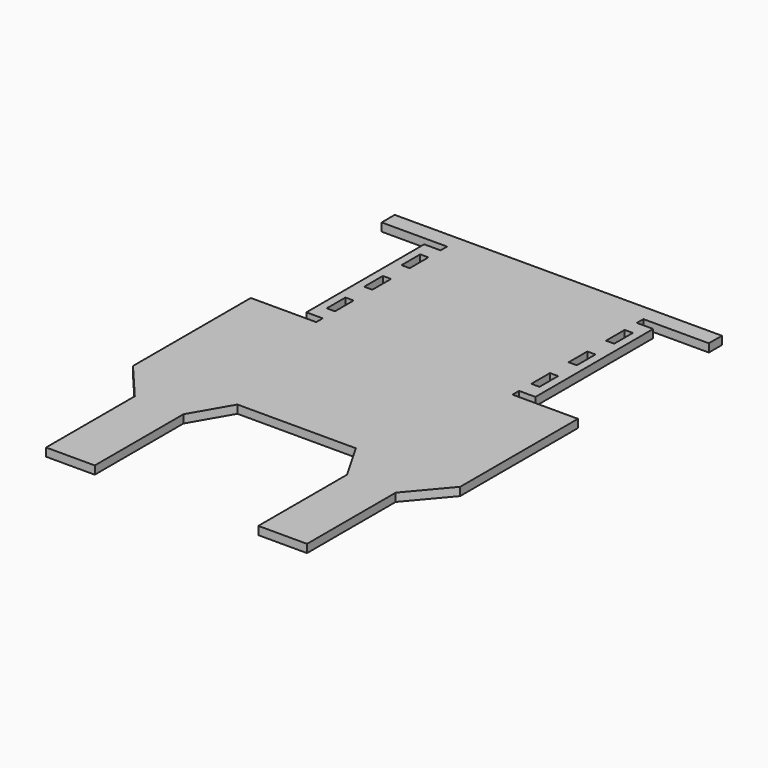
from build123d import *

# Parameters (mm, degrees)
F1_DEPTH = 3.175
F3_W     = 3.175
F3_H     = 9.0678
F4_DEPTH = 25.4
F6_DEPTH = 25.4


with BuildPart() as f1:
    # F0 (on Top) → F1 (new body)
    with BuildSketch(Plane.XY):
        Polygon((-50.681875, -44.462932), (-114.181875, -44.462932), (-114.181875, -171.462932), (-101.325941, -186.661884), (-101.325941, -229.702711), (-82.431875, -229.702711), (-82.431875, -186.661884), (-73.656756, -171.462932), (-50.681875, -171.462932), align=None)
        Polygon((12.818125, -44.462932), (-50.681875, -44.462932), (-50.681875, -171.462932), (-27.706994, -171.462932), (-18.931875, -186.661884), (-18.931875, -229.702711), (-0.03781, -229.702711), (-0.03781, -186.661884), (12.818125, -171.462932), align=None)
    extrude(amount=F1_DEPTH)

    # F3 (on face) → F4 (cut)
    with BuildSketch(Plane.XY.offset(3.175)):
        with Locations((-110.054375, -64.414632)):
            Rectangle(F3_W, F3_H)
        with Locations((-110.054375, -82.550232)):
            Rectangle(F3_W, F3_H)
        with Locations((-110.054375, -100.685832)):
            Rectangle(F3_W, F3_H)
        with Locations((-90.369375, -64.414632)):
            Rectangle(F3_W, F3_H)
        with Locations((-90.369375, -82.550232)):
            Rectangle(F3_W, F3_H)
        with Locations((-90.369375, -100.685832)):
            Rectangle(F3_W, F3_H)
        with Locations((-10.994375, -82.550232)):
            Rectangle(F3_W, F3_H)
        with Locations((-10.994375, -64.414632)):
            Rectangle(F3_W, F3_H)
        with Locations((8.690625, -100.685832)):
            Rectangle(F3_W, F3_H)
        with Locations((8.690625, -82.550232)):
            Rectangle(F3_W, F3_H)
        with Locations((-10.994375, -100.685832)):
            Rectangle(F3_W, F3_H)
        with Locations((8.690625, -64.414632)):
            Rectangle(F3_W, F3_H)
    extrude(amount=-F4_DEPTH, mode=Mode.SUBTRACT)

    # F5 (on face) → F6 (cut)
    with BuildSketch(Plane.XY.offset(3.175)):
        Polygon((-95.131875, -50.812932), (-114.181875, -50.812932), (-114.181875, -114.312932), (-95.131875, -114.312932), (-88.781875, -114.312932), (-88.781875, -111.137932), (-95.131875, -111.137932), (-95.131875, -53.987932), (-88.781875, -53.987932), (-88.781875, -50.812932), align=None)
        Polygon((-12.581875, -111.137932), (-12.581875, -114.312932), (-6.231875, -114.312932), (12.818125, -114.312932), (12.818125, -50.812932), (-6.231875, -50.812932), (-12.581875, -50.812932), (-12.581875, -53.987932), (-6.231875, -53.987932), (-6.231875, -111.137932), align=None)
    extrude(amount=-F6_DEPTH, mode=Mode.SUBTRACT)


solid = f1.part
